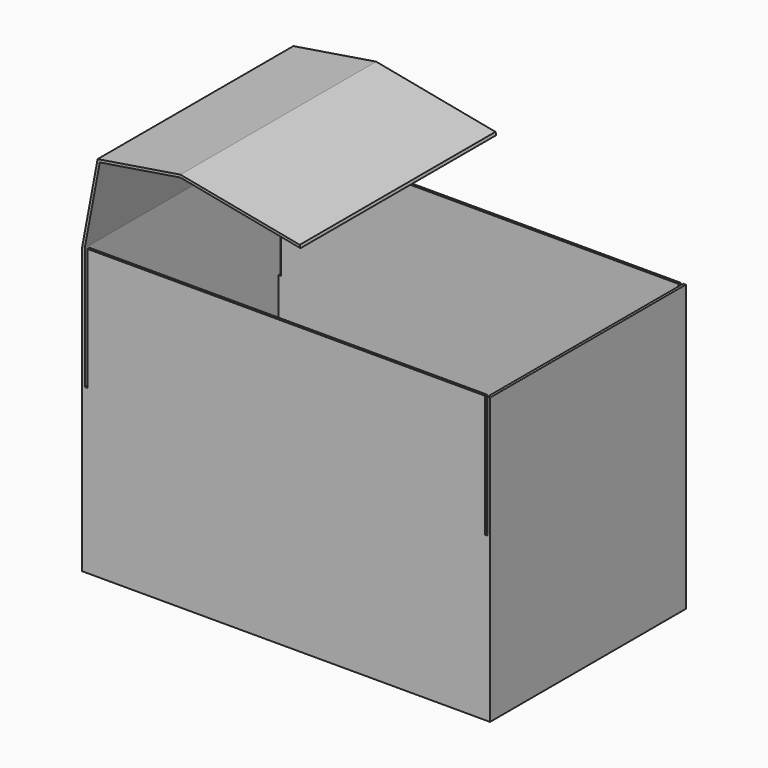
from build123d import *

# Parameters (mm, degrees)
F0_W     = 508
F0_H     = 304.8
F1_DEPTH = 355.6
F2_T     = -3.175
F3_W     = 3.175
F3_H     = 152.4
F4_DEPTH = 304.801
F6_DEPTH = 304.8


with BuildPart() as f1:
    # F0 (on Top) → F1 (new body)
    with BuildSketch(Plane.XY):
        Rectangle(F0_W, F0_H)
    extrude(amount=F1_DEPTH)

    # F2
    f2_openings = [f1.faces().sort_by_distance(p)[0] for p in [
        (0, 0, 355.6),
    ]]
    offset(amount=F2_T, openings=f2_openings)

    # F3 (on face) → F4 (cut, through all)
    with BuildSketch(Plane.XZ.offset(152.4)):
        with Locations((-249.2375, 279.4)):
            Rectangle(F3_W, F3_H)
        with Locations((249.2375, 279.4)):
            Rectangle(F3_W, F3_H)
    extrude(amount=-F4_DEPTH, mode=Mode.SUBTRACT)


with BuildPart() as f6:
    # F5 (on face) → F6 (new body)
    with BuildSketch(Plane.XZ.offset(152.4)):
        Polygon((-254, 355.6), (-250.825, 355.6), (-232.107642, 455.461006), (-131.783677, 471.512858), (17.861943, 442.669342), (16.934914, 446.081462), (-131.73249, 474.736431), (-234.816497, 458.242972), (-253.945656, 356.184917), align=None)
    extrude(amount=-F6_DEPTH)


solid = Compound([f1.part, f6.part])
